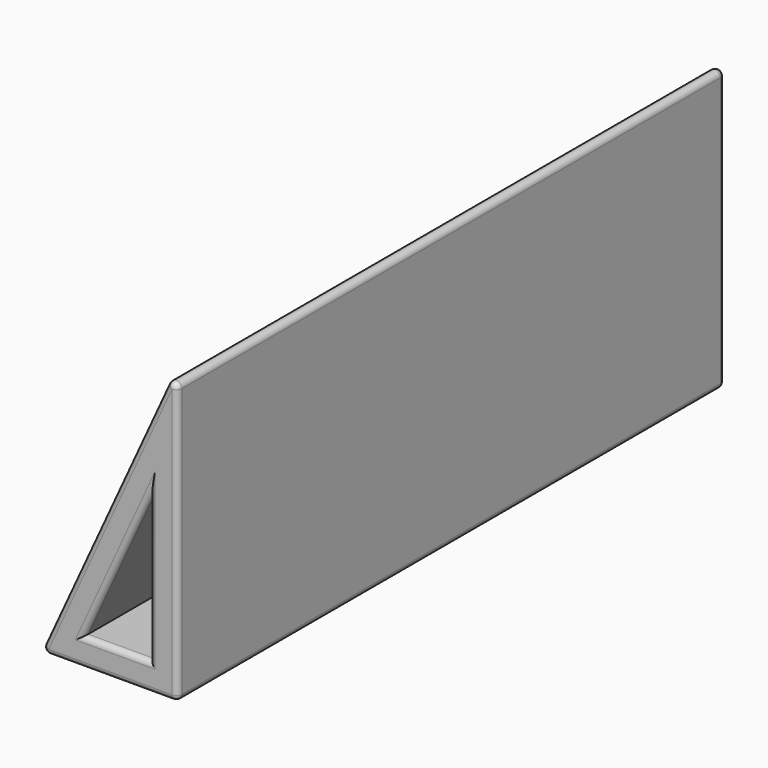
from build123d import *

# Parameters (mm, degrees)
F1_DEPTH = 124.46
F3_DEPTH = 124.46
F4_R     = 1


with BuildPart() as f1:
    # F0 (on Front) → F1 (new body)
    with BuildSketch(Plane.XZ):
        Polygon((-25, 0), (0, 0), (0, 54.543561), align=None)
    extrude(amount=F1_DEPTH)

    # F2 (on face) → F3 (cut, through all)
    with BuildSketch(Plane.XZ.offset(124.46)):
        Polygon((-5.08, 31.189688), (-17.047356, 5.08), (-5.08, 5.08), align=None)
    extrude(amount=-F3_DEPTH, mode=Mode.SUBTRACT)

    # F4
    f4_edges = [f1.edges().sort_by_distance(p)[0] for p in [
        (0, -62.23, 54.543561),
        (-12.5, 0, 27.27178),
        (-25, -62.23, 0),
        (-12.5, -124.46, 27.27178),
        (-12.5, -124.46, 0),
        (0, -124.46, 27.27178),
        (-11.063678, -124.46, 5.08),
        (-11.063678, -124.46, 18.134844),
        (-5.08, -124.46, 18.134844),
        (-12.5, 0, 0),
        (0, -62.23, 0),
        (-5.08, 0, 18.134844),
        (-11.063678, 0, 5.08),
        (-11.063678, 0, 18.134844),
        (0, 0, 27.27178),
    ]]
    fillet(f4_edges, radius=F4_R)


solid = f1.part
